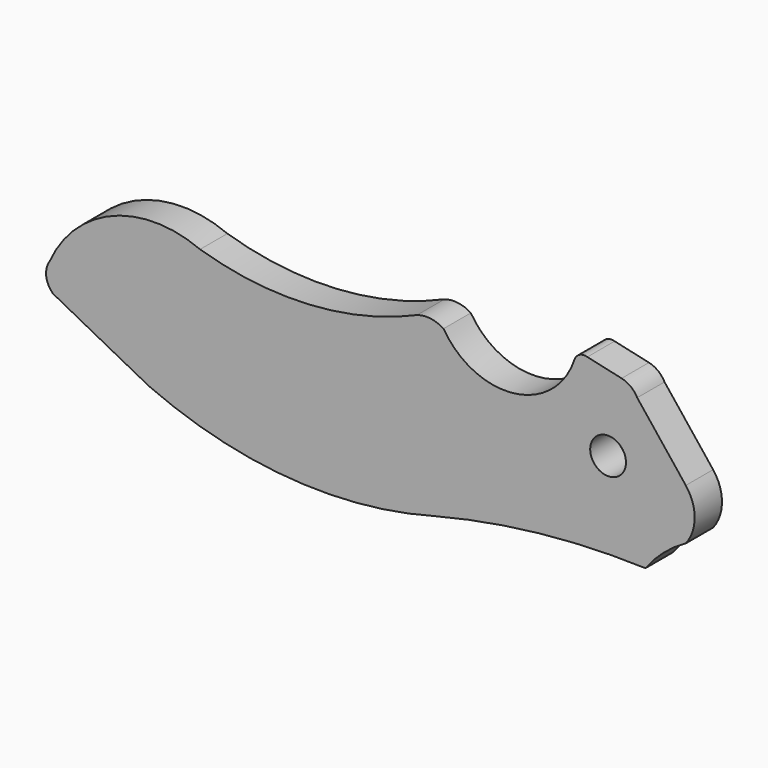
from build123d import *

# Parameters (mm, degrees)
F0_R     = 3.32764
F1_DEPTH = 6.35


with BuildPart() as f1:
    # F0 (on Front) → F1 (new body)
    with BuildSketch(Plane.XZ):
        with BuildLine():
            ThreePointArc((10.863197, -3.101384), (-9.116668, -7.905005), (-29.521924, -5.476979))
            ThreePointArc((-29.521924, -5.476979), (-45.742293, -5.257841), (-57.473989, -16.46122))
            ThreePointArc((-57.473989, -16.46122), (-58.148469, -19.15893), (-56.883303, -21.635201))
            ThreePointArc((-56.883303, -21.635201), (-47.926878, -26.330705), (-38.960246, -31.006687))
            ThreePointArc((-38.960246, -31.006687), (-12.808025, -37.551213), (14.029663, -35.000129))
            ThreePointArc((14.029663, -35.000129), (33.535174, -31.476841), (53.343166, -30.754377))
            ThreePointArc((53.343166, -30.754377), (56.744891, -27.089985), (60.856728, -24.245292))
            ThreePointArc((60.856728, -24.245292), (62.508975, -19.496347), (60.856728, -14.747403))
            Line((60.856728, -14.747403), (51.819268, -3.331661))
            ThreePointArc((51.819268, -3.331661), (50.614082, -1.893648), (48.914772, -1.098222))
            Line((48.914772, -1.098222), (42.531531, 0.329607))
            ThreePointArc((42.531531, 0.329607), (41.058171, 0.198446), (40.120659, -0.945698))
            ThreePointArc((40.120659, -0.945698), (28.833955, -10.074921), (15.773744, -3.73747))
            ThreePointArc((15.773744, -3.73747), (13.389868, -2.868245), (10.863197, -3.101384))
        make_face()
        with Locations((46.395506, -14.617501)):
            Circle(F0_R, mode=Mode.SUBTRACT)
    extrude(amount=F1_DEPTH)


solid = f1.part
